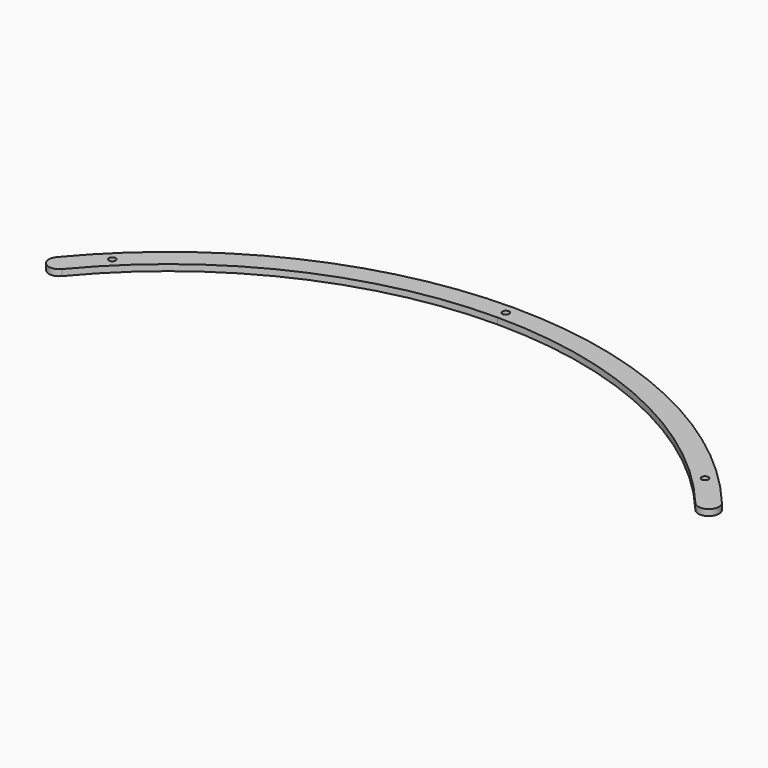
from build123d import *

# Parameters (mm, degrees)
PAD014_DEPTH                        = 3
SKETCH055_R                         = 1.65
POCKET019_DEPTH                     = 364.282338
POCKET019_DEPTH_BACK                = 367.282338
BODY001003005003003_PLACEMENT_ANGLE = 60
CLONE023_PLACEMENT_ANGLE            = 60


with BuildPart() as part:
    # Sketch052 → Pad014 (new body)
    with BuildSketch(Plane.XY):
        with BuildLine():
            ThreePointArc((152.959511, 127.101705), (84.480895, 180.040089), (0, 198.875477))
            Line((0, 198.875477), (0, 208.875477))
            ThreePointArc((160.650731, 133.492724), (88.728824, 189.092995), (0, 208.875477))
            ThreePointArc((152.959511, 127.101705), (160.000631, 126.451604), (160.650731, 133.492724))
        make_face()
    pad014 = extrude(amount=PAD014_DEPTH)

    # Sketch055 → Pocket019 (cut, two sides)
    with BuildSketch(Plane.XY) as pocket019_sk:
        with Locations((143.11, 145.205847)):
            Circle(SKETCH055_R)
        with BuildLine():
            Line((0, 202.225477), (0, 205.525477))
            ThreePointArc((0, 202.225477), (1.65, 203.875477), (0, 205.525477))
        make_face()
    pocket019 = extrude(amount=-POCKET019_DEPTH, mode=Mode.SUBTRACT) + extrude(pocket019_sk.sketch, amount=POCKET019_DEPTH_BACK, mode=Mode.SUBTRACT)

    # Mirrored019: Pad014, Pocket019 across Sketch052 V_Axis
    add(pad014.mirror(Plane(origin=(0, 0, 0), x_dir=(0, 0, 1), z_dir=(1, 0, 0))))
    add(pocket019.mirror(Plane(origin=(0, 0, 0), x_dir=(0, 0, 1), z_dir=(1, 0, 0))), mode=Mode.SUBTRACT)


with BuildPart() as part_1:
    # Body001003005003003 placement: moved
    add(part.part.rotate(Axis((0, 0, 0), (0, 0, 1)), BODY001003005003003_PLACEMENT_ANGLE))


with BuildPart() as part_2:
    # Clone023 placement: moved
    add(part_1.part.moved(Location((0, -76, 0))).rotate(Axis((0, -76, 0), (0, 0, -1)), CLONE023_PLACEMENT_ANGLE))


solid = part_2.part
